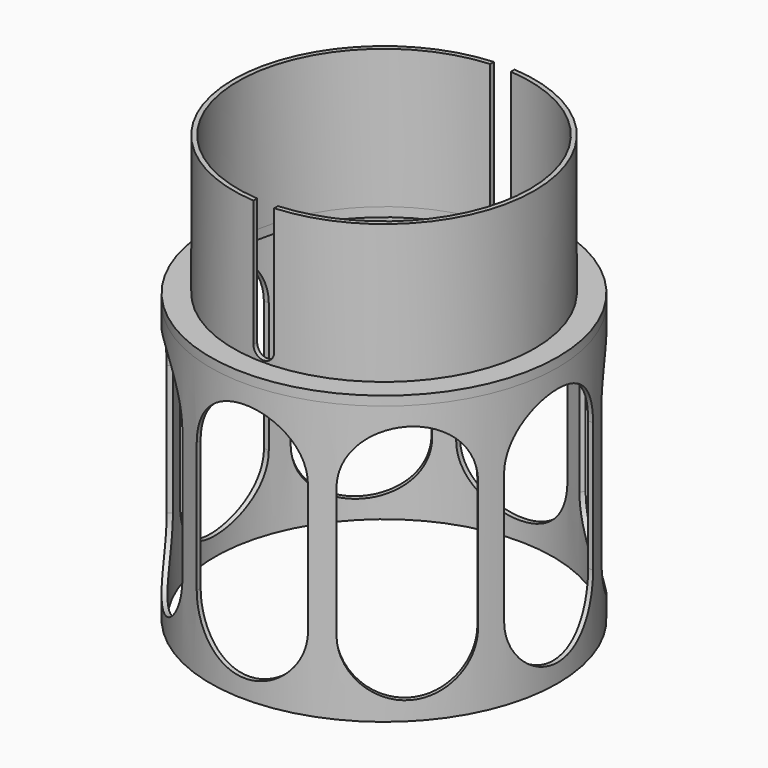
from build123d import *

# Parameters (mm, degrees)
F1_START       = 2.54
F0_R           = 41.275
F0_R_2         = 40.005
F1_DEPTH       = 38.1
F0_R_3         = 47.625
F0_R_4         = 46.355
F2_DEPTH       = 76.2
F3_DEPTH       = 2.54
F5_DEPTH       = 76.2
F5_DEPTH_BACK  = 76.2
F9_DEPTH       = 76.2
F9_DEPTH_BACK  = 76.2
F12_DEPTH      = 76.2
F12_DEPTH_BACK = 76.2
F13_DEPTH      = 76.2
F13_DEPTH_BACK = 76.2


with BuildPart() as f1:
    # F0 (on Top) → F1 (new body)
    with BuildSketch(Plane.XY.offset(F1_START)):
        Circle(F0_R)
        Circle(F0_R_2, mode=Mode.SUBTRACT)
    extrude(amount=F1_DEPTH)


with BuildPart() as f2:
    # F0 (on Top) → F2 (new body)
    with BuildSketch(Plane.XY):
        Circle(F0_R_3)
        Circle(F0_R_4, mode=Mode.SUBTRACT)
    extrude(amount=-F2_DEPTH)


with BuildPart() as f3:
    # F0 (on Top) → F3 (new body)
    with BuildSketch(Plane.XY):
        Circle(F0_R_3)
        Circle(F0_R_4, mode=Mode.SUBTRACT)
        Circle(F0_R_4)
        Circle(F0_R, mode=Mode.SUBTRACT)
        Circle(F0_R)
        Circle(F0_R_2, mode=Mode.SUBTRACT)
    extrude(amount=F3_DEPTH)


with BuildPart() as f5_tool:
    # F4 (on Front) → F5 (new body, two sides)
    with BuildSketch(Plane.XZ) as f5_sk:
        with BuildLine():
            ThreePointArc((-15.24, -55.8897871426), (0, -71.1297871426), (15.24, -55.8897871426))
            ThreePointArc((15.24, -55.8897871426), (0, -40.6497871426), (-15.24, -55.8897871426))
        make_face()
        with BuildLine():
            Line((15.24, -55.8897871426), (15.24, -20.32))
            ThreePointArc((15.24, -20.32), (0, -35.56), (-15.24, -20.32))
            Line((-15.24, -20.32), (-15.24, -55.8897871426))
            ThreePointArc((-15.24, -55.8897871426), (0, -40.6497871426), (15.24, -55.8897871426))
        make_face()
        with BuildLine():
            ThreePointArc((-15.24, -20.32), (0, -35.56), (15.24, -20.32))
            ThreePointArc((15.24, -20.32), (0, -5.08), (-15.24, -20.32))
        make_face()
        with BuildLine():
            ThreePointArc((-2.8391299663, 5.9362775845), (-0.029946257, 3.0367847486), (2.8397615533, 5.8763884008))
            ThreePointArc((2.8397615533, 5.8763884008), (0.029946257, 8.715992053), (-2.8391299663, 5.9362775845))
        make_face()
        with BuildLine():
            ThreePointArc((-2.8391299663, 5.9362775845), (0.029946257, 8.715992053), (2.8397615533, 5.8763884008))
            Line((2.8397615533, 5.8763884008), (2.8397615533, 40.64))
            Line((2.8397615533, 40.64), (-2.8391299663, 40.64))
            Line((-2.8391299663, 40.64), (-2.8391299663, 5.9362775845))
        make_face()
    extrude(amount=-F5_DEPTH)
    extrude(f5_sk.sketch, amount=F5_DEPTH_BACK)


with BuildPart() as f1_1:
    add(f1.part)

    # F5: cut by f5_tool
    add(f5_tool.part, mode=Mode.SUBTRACT)


with BuildPart() as f2_1:
    add(f2.part)

    # F5: cut by f5_tool
    add(f5_tool.part, mode=Mode.SUBTRACT)

    # F8 (on face) → F9 (cut, two sides)
    with BuildSketch(Plane(origin=(0, 0, 0), x_dir=(0.7071067812, -0.7071067812, 0), z_dir=(-0.7071067812, -0.7071067812, 0))) as f9_sk:
        with BuildLine():
            ThreePointArc((-15.24, -55.88), (0, -71.12), (15.24, -55.88))
            ThreePointArc((15.24, -55.88), (0, -40.64), (-15.24, -55.88))
        make_face()
        with BuildLine():
            Line((15.24, -55.88), (15.24, -20.32))
            ThreePointArc((15.24, -20.32), (0, -35.56), (-15.24, -20.32))
            Line((-15.24, -20.32), (-15.24, -55.88))
            ThreePointArc((-15.24, -55.88), (0, -40.64), (15.24, -55.88))
        make_face()
        with BuildLine():
            ThreePointArc((-15.24, -20.32), (0, -35.56), (15.24, -20.32))
            ThreePointArc((15.24, -20.32), (0, -5.08), (-15.24, -20.32))
        make_face()
    extrude(amount=-F9_DEPTH, mode=Mode.SUBTRACT)
    extrude(f9_sk.sketch, amount=F9_DEPTH_BACK, mode=Mode.SUBTRACT)

    # F11 (on face) → F12 (cut, two sides)
    with BuildSketch(Plane(origin=(0, 0, 0), x_dir=(0.7071067812, 0.7071067812, 0), z_dir=(0.7071067812, -0.7071067812, 0))) as f12_sk:
        with BuildLine():
            ThreePointArc((-15.24, -55.88), (0, -71.12), (15.24, -55.88))
            ThreePointArc((15.24, -55.88), (0, -40.64), (-15.24, -55.88))
        make_face()
        with BuildLine():
            Line((15.24, -55.88), (15.24, -20.32))
            ThreePointArc((15.24, -20.32), (0, -35.56), (-15.24, -20.32))
            Line((-15.24, -20.32), (-15.24, -55.88))
            ThreePointArc((-15.24, -55.88), (0, -40.64), (15.24, -55.88))
        make_face()
        with BuildLine():
            ThreePointArc((-15.24, -20.32), (0, -35.56), (15.24, -20.32))
            ThreePointArc((15.24, -20.32), (0, -5.08), (-15.24, -20.32))
        make_face()
    extrude(amount=-F12_DEPTH, mode=Mode.SUBTRACT)
    extrude(f12_sk.sketch, amount=F12_DEPTH_BACK, mode=Mode.SUBTRACT)

    # F6 (on Right) → F13 (cut, two sides)
    with BuildSketch(Plane.YZ) as f13_sk:
        with BuildLine():
            ThreePointArc((-15.24, -20.32), (0, -35.56), (15.24, -20.32))
            ThreePointArc((15.24, -20.32), (0, -5.08), (-15.24, -20.32))
        make_face()
        with BuildLine():
            Line((15.24, -55.88), (15.24, -20.32))
            ThreePointArc((15.24, -20.32), (0, -35.56), (-15.24, -20.32))
            Line((-15.24, -20.32), (-15.24, -55.88))
            ThreePointArc((-15.24, -55.88), (0, -40.64), (15.24, -55.88))
        make_face()
        with BuildLine():
            ThreePointArc((-15.24, -55.88), (0, -71.12), (15.24, -55.88))
            ThreePointArc((15.24, -55.88), (0, -40.64), (-15.24, -55.88))
        make_face()
    extrude(amount=-F13_DEPTH, mode=Mode.SUBTRACT)
    extrude(f13_sk.sketch, amount=F13_DEPTH_BACK, mode=Mode.SUBTRACT)


solid = Compound([f3.part, f1_1.part, f2_1.part])
